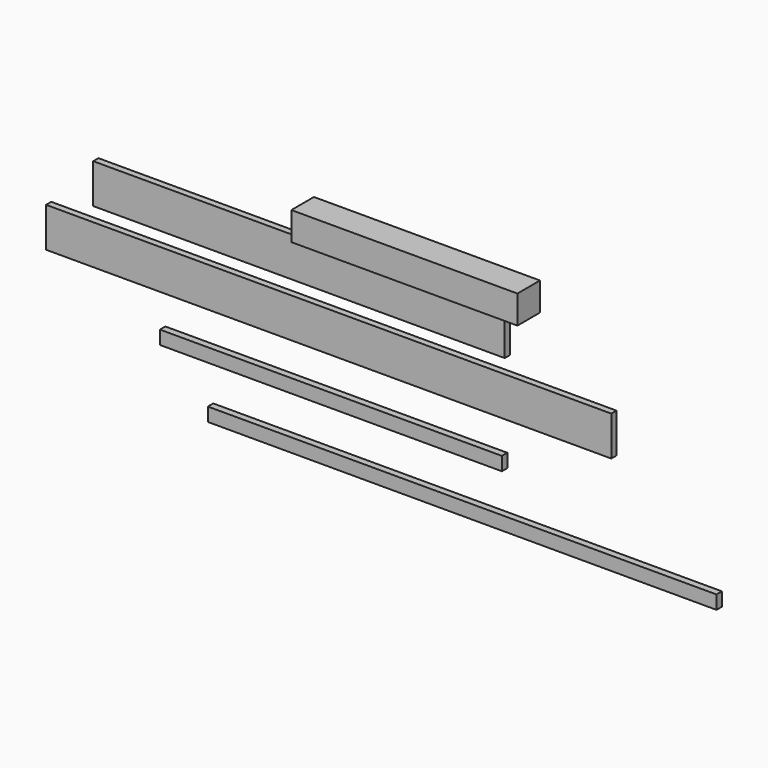
from build123d import *

# Parameters (mm, degrees)
F0_W     = 2000
F0_H     = 140
F1_DEPTH = 23
F2_W     = 1456
F2_H     = 140
F3_DEPTH = 23
F4_W     = 800
F4_H     = 100
F5_DEPTH = 100
F6_W     = 1800
F6_H     = 48
F7_DEPTH = 24
F8_W     = 1210
F8_H     = 48
F9_DEPTH = 24


with BuildPart() as f1:
    # F0 (on Front) → F1 (new body)
    with BuildSketch(Plane.XZ):
        with Locations((0.254404, 28.522527)):
            Rectangle(F0_W, F0_H)
    extrude(amount=F1_DEPTH)


with BuildPart() as f3:
    # F2 (on Front) → F3 (new body)
    with BuildSketch(Plane.XZ):
        with Locations((-104.935052, 218.829983)):
            Rectangle(F2_W, F2_H)
    extrude(amount=F3_DEPTH)


with BuildPart() as f5:
    # F4 (on Front) → F5 (new body)
    with BuildSketch(Plane.XZ):
        with Locations((329.664744, 365.880244)):
            Rectangle(F4_W, F4_H)
    extrude(amount=F5_DEPTH)


with BuildPart() as f7:
    # F6 (on Front) → F7 (new body)
    with BuildSketch(Plane.XZ):
        with Locations((473.31171, -367.04233)):
            Rectangle(F6_W, F6_H)
    extrude(amount=F7_DEPTH)


with BuildPart() as f9:
    # F8 (on Front) → F9 (new body)
    with BuildSketch(Plane.XZ):
        with Locations((8.934892, -182.410829)):
            Rectangle(F8_W, F8_H)
    extrude(amount=F9_DEPTH)


solid = Compound([f1.part, f3.part, f5.part, f7.part, f9.part])
